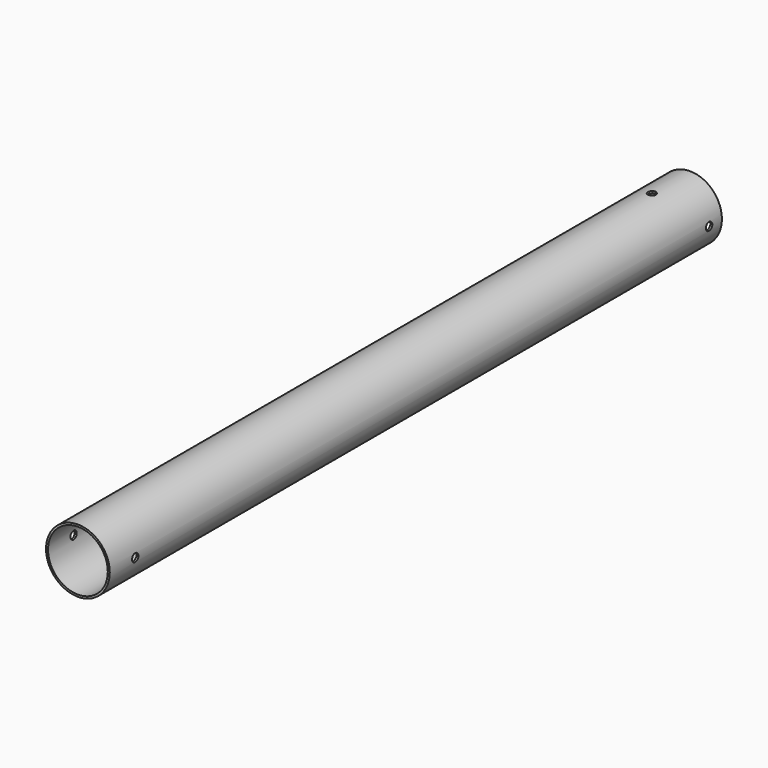
from build123d import *

# Parameters (mm, degrees)
F0_R     = 25.4
F0_R_2   = 23.8125
F1_DEPTH = 304.8
F2_R     = 3.175
F3_DEPTH = 25.4
F4_R     = 3.175
F5_DEPTH = 25.4


with BuildPart() as f1:
    # F0 (on Front) → F1 (new body, symmetric)
    with BuildSketch(Plane.XZ):
        Circle(F0_R)
        Circle(F0_R_2, mode=Mode.SUBTRACT)
    extrude(amount=F1_DEPTH, both=True)

    # F2 (on Right) → F3 (cut, symmetric)
    with BuildSketch(Plane.YZ):
        with Locations((-279.4, 0)):
            Circle(F2_R)
        with Locations((292.1, 0)):
            Circle(F2_R)
    extrude(amount=F3_DEPTH, both=True, mode=Mode.SUBTRACT)

    # F4 (on Top) → F5 (cut, symmetric)
    with BuildSketch(Plane.XY):
        with Locations((0, 266.7)):
            Circle(F4_R)
    extrude(amount=F5_DEPTH, both=True, mode=Mode.SUBTRACT)


solid = f1.part
